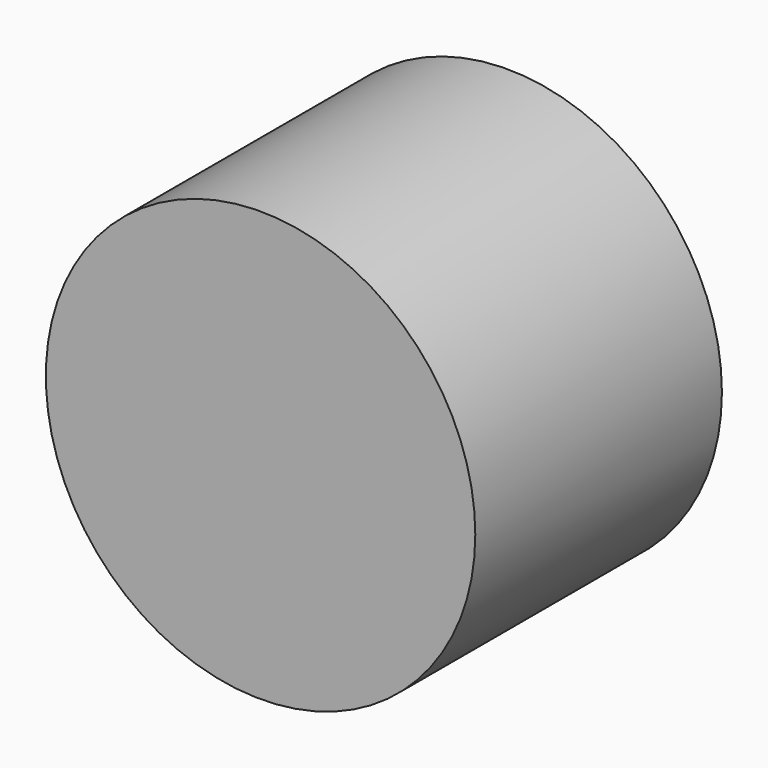
from build123d import *

# Parameters (mm, degrees)
F0_R     = 35.383568
F1_DEPTH = 50.8


with BuildPart() as f1:
    # F0 (on Front) → F1 (new body)
    with BuildSketch(Plane.XZ):
        Circle(F0_R)
        Polygon((34.528694, 0), (17.264347, -29.902726), (-17.264347, -29.902726), (-34.528694, 0), (-17.264347, 29.902726), (17.264347, 29.902726), align=None, mode=Mode.SUBTRACT)
        Polygon((-17.264347, -29.902726), (17.264347, -29.902726), (34.528694, 0), (17.264347, 29.902726), (-17.264347, 29.902726), (-34.528694, 0), align=None)
    extrude(amount=F1_DEPTH)


solid = f1.part
